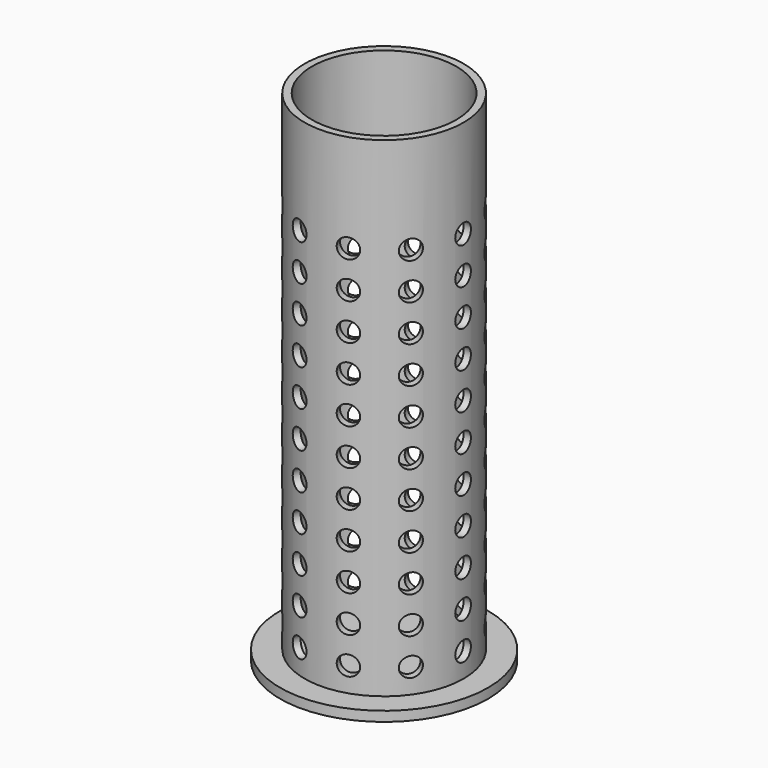
from build123d import *

# Parameters (mm, degrees)
SKETCH_R           = 32.5
PAD_DEPTH          = 200
THICKNESS_T        = -3
SKETCH001_R        = 4
POCKET_DEPTH       = 472.728214
POLARPATTERN_COUNT = 10
SKETCH002_R        = 42.5
PAD001_DEPTH       = 4
SKETCH003_W        = 16
SKETCH003_H        = 28
PAD002_DEPTH       = 10
SKETCH004_W        = 15.458886
SKETCH004_H        = 6.955215
POCKET001_DEPTH    = 16


with BuildPart() as part:
    # Sketch → Pad (new body)
    with BuildSketch(Plane.XY):
        Circle(SKETCH_R)
    extrude(amount=PAD_DEPTH)

    # Thickness
    thickness_openings = [part.faces().sort_by_distance(p)[0] for p in [
        (0, 0, 200),
    ]]
    offset(amount=THICKNESS_T, openings=thickness_openings)

    # Sketch001 → Pocket (cut, through all)
    with BuildSketch(Plane.YZ):
        with Locations((0, 10)):
            Circle(SKETCH001_R)
        with Locations((0, 25)):
            Circle(SKETCH001_R)
        with Locations((0, 40)):
            Circle(SKETCH001_R)
        with Locations((0, 55)):
            Circle(SKETCH001_R)
        with Locations((0, 70)):
            Circle(SKETCH001_R)
        with Locations((0, 85)):
            Circle(SKETCH001_R)
        with Locations((0, 100)):
            Circle(SKETCH001_R)
        with Locations((0, 115)):
            Circle(SKETCH001_R)
        with Locations((0, 130)):
            Circle(SKETCH001_R)
        with Locations((0, 145)):
            Circle(SKETCH001_R)
        with Locations((0, 160)):
            Circle(SKETCH001_R)
    pocket = extrude(amount=-POCKET_DEPTH, mode=Mode.SUBTRACT)

    # PolarPattern: Pocket ×10 about axis
    polarpattern_axis = Axis((0, 0, 0), (0, 0, 1))
    for i in range(1, POLARPATTERN_COUNT):
        add(pocket.rotate(polarpattern_axis, i * 360 / POLARPATTERN_COUNT), mode=Mode.SUBTRACT)

    # Sketch002 → Pad001 (join)
    with BuildSketch(Plane.XY):
        Circle(SKETCH002_R)
    extrude(amount=-PAD001_DEPTH)

    # Sketch003 (on Face116 of Pad001) → Pad002 (join)
    with BuildSketch(Plane(origin=(0, 0, -4), x_dir=(1, 0, 0), z_dir=(0, 0, -1))):
        Rectangle(SKETCH003_W, SKETCH003_H)
    extrude(amount=PAD002_DEPTH)

    # Sketch004 (on Face121 of Pad002) → Pocket001 (cut)
    with BuildSketch(Plane(origin=(-8, 0, 0), x_dir=(0, -1, 0), z_dir=(-1, 0, 0))):
        with BuildLine():
            ThreePointArc((7.729443, -14), (9.882431, -13.108203), (10.774228, -10.955215))
            Line((10.774228, -7.225771), (10.774228, -10.955215))
            ThreePointArc((14, -4), (11.719035, -4.944806), (10.774228, -7.225771))
            Line((14, -4), (14, -14))
            Line((14, -14), (7.729443, -14))
        make_face()
        with BuildLine():
            ThreePointArc((-10.774228, -10.955216), (-9.882431, -13.108204), (-7.729443, -14))
            Line((-7.729443, -14), (-14, -14))
            Line((-14, -14), (-14, -4))
            ThreePointArc((-10.774228, -7.225772), (-11.719035, -4.944807), (-14, -4))
            Line((-10.774228, -7.225772), (-10.774228, -10.955216))
        make_face()
        with Locations((0, -7.477607)):
            Rectangle(SKETCH004_W, SKETCH004_H)
    extrude(amount=-POCKET001_DEPTH, mode=Mode.SUBTRACT)


solid = part.part
